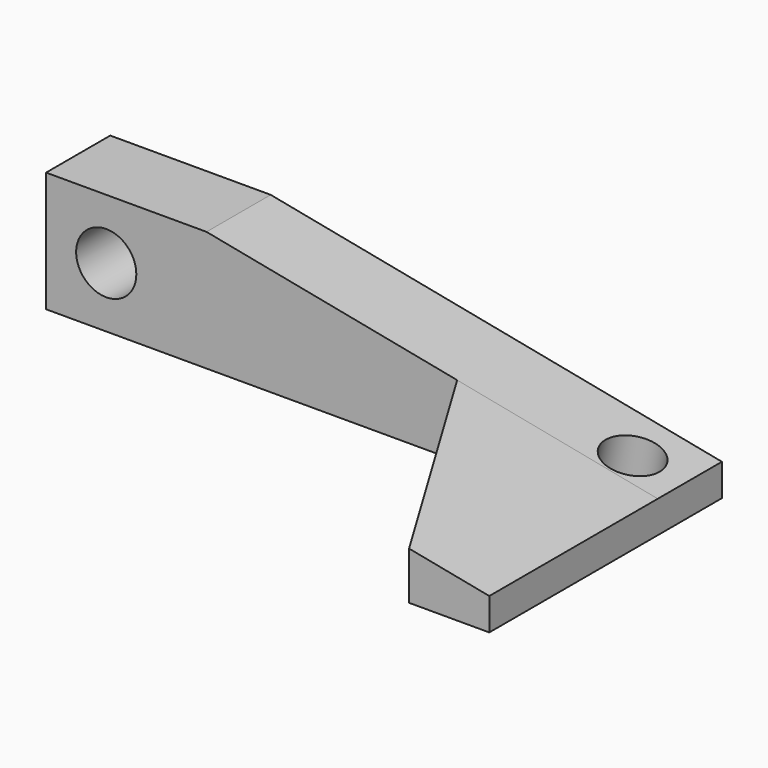
from build123d import *

# Parameters (mm, degrees)
F0_R     = 1.5
F1_DEPTH = 4
F3_DEPTH = 10.5
F5_DEPTH = 6.001
F6_R     = 1.375
F7_DEPTH = 7.424825


with BuildPart() as f1:
    # F0 (on Front) → F1 (new body)
    with BuildSketch(Plane.XZ):
        Polygon((5, 3), (-3, 3), (-3, -3), (27.5, -3), (27.5, -1.4), align=None)
        Circle(F0_R, mode=Mode.SUBTRACT)
    extrude(amount=F1_DEPTH)

    # F2 (on face) → F3 (join)
    with BuildSketch(Plane.XZ.offset(4)):
        Polygon((17.5, -3), (27.5, -3), (27.5, -1.4), (17.5, 0.555556), align=None)
    extrude(amount=F3_DEPTH)

    # F4 (on face) → F5 (cut, through all)
    with BuildSketch(Plane(origin=(0, 0, -3), x_dir=(1, 0, 0), z_dir=(0, 0, -1))):
        Polygon((23.5, 14.5), (17.5, 14.5), (17.5, 4), align=None)
    extrude(amount=-F5_DEPTH, mode=Mode.SUBTRACT)

    # F6 (on face) → F7 (cut, through all)
    with BuildSketch(Plane(origin=(0.749225, 0, 3.831263), x_dir=(0.981411, 0, -0.19192), z_dir=(0.19192, 0, 0.981411))):
        with Locations((24.757478, -2.5)):
            Circle(F6_R)
    extrude(amount=-F7_DEPTH, mode=Mode.SUBTRACT)


solid = f1.part
